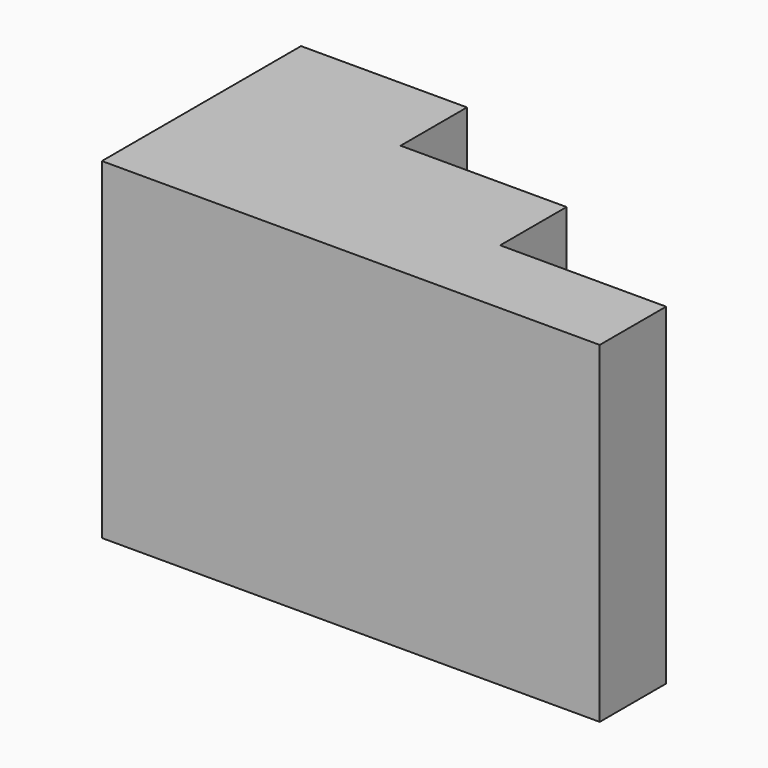
from build123d import *

# Parameters (mm, degrees)
F1_DEPTH = 40
F2_W     = 20
F2_H     = 10
F3_DEPTH = 10


with BuildPart() as f1:
    # F0 (on Top) → F1 (new body)
    with BuildSketch(Plane.XY):
        Polygon((0, 30), (0, 0), (60, 0), (60, 10), (20, 10), (20, 30), align=None)
    extrude(amount=F1_DEPTH)

    # F2 (on face) → F3 (join)
    with BuildSketch(Plane(origin=(0, 10, 0), x_dir=(-1, 0, 0), z_dir=(0, 1, 0))):
        with Locations((-30, 35)):
            Rectangle(F2_W, F2_H)
    extrude(amount=F3_DEPTH)


solid = f1.part
